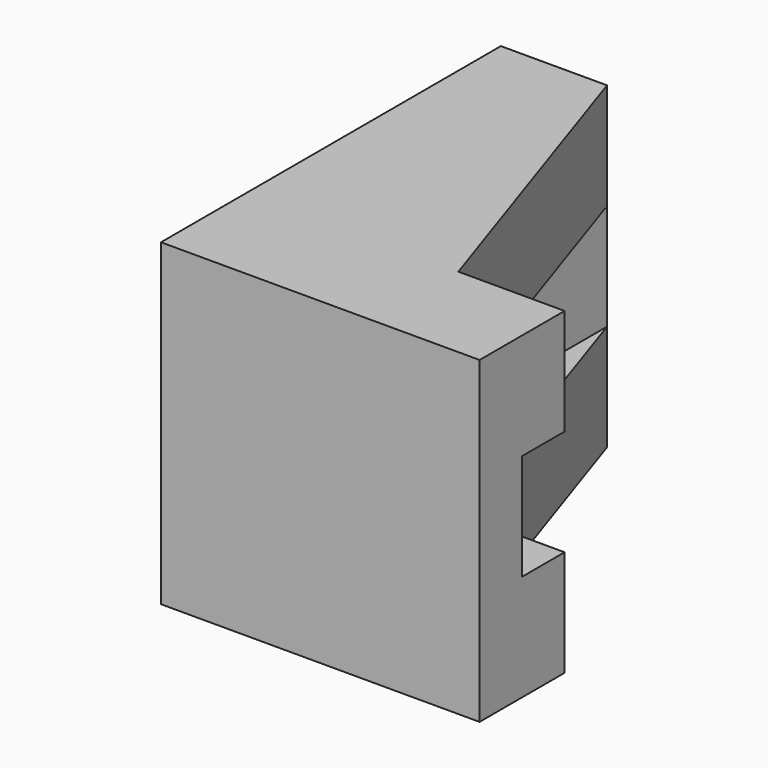
from build123d import *

# Parameters (mm, degrees)
F1_DEPTH = 30
F2_W     = 20
F2_H     = 10
F3_DEPTH = 35


with BuildPart() as f1:
    # F0 (on Top) → F1 (new body)
    with BuildSketch(Plane.XY):
        Polygon((-40.788527, 15.479742), (-40.788527, -24.520258), (-10.788527, -24.520258), (-10.788527, -14.520258), (-20.788527, -14.520258), (-30.788527, 15.479742), align=None)
    extrude(amount=-F1_DEPTH)

    # F2 (on face) → F3 (cut)
    with BuildSketch(Plane(origin=(0, 15.479742, 0), x_dir=(-1, 0, 0), z_dir=(0, 1, 0))):
        with Locations((20.788527, -15)):
            Rectangle(F2_W, F2_H)
    extrude(amount=-F3_DEPTH, mode=Mode.SUBTRACT)


solid = f1.part
